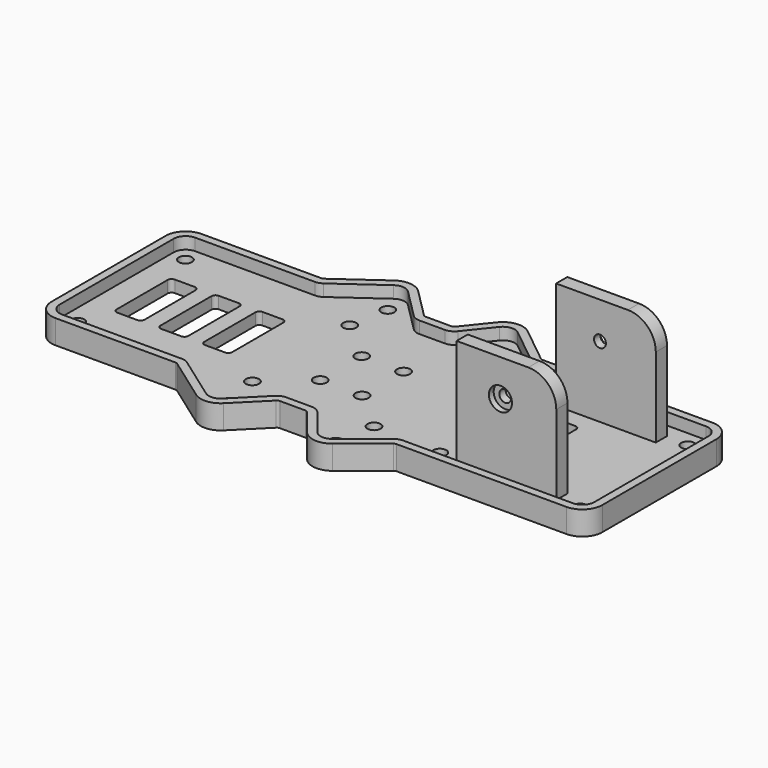
from build123d import *

# Parameters (mm, degrees)
F0_R      = 1.65
F1_DEPTH  = 3
F2_DEPTH  = 6
F3_W      = 25
F3_H      = 3.5
F4_DEPTH  = 27
F5_R      = 7
F7_D      = 3
F6_R      = 2.9000006616
F6_R_2    = 1.5
F8_DEPTH  = 1.5
F9_R      = 2.9
F9_R_2    = 1.5
F10_DEPTH = 1.5


with BuildPart() as f1:
    # F0 (on Top) → F1 (new body)
    with BuildSketch(Plane.XY):
        with BuildLine():
            Line((-28.4613951602, 20.875), (-58.5, 20.875))
            ThreePointArc((-58.5, 20.875), (-60.6213203436, 19.9963203436), (-61.5, 17.875))
            Line((-61.5, 17.875), (-61.5, -17.875))
            ThreePointArc((-61.5, -17.875), (-60.6213203436, -19.9963203436), (-58.5, -20.875))
            Line((-58.5, -20.875), (-28.4613951602, -20.875))
            ThreePointArc((-28.4613951602, -20.875), (-27.5458628672, -21.0181134744), (-26.7176805791, -21.4337995864))
            Line((-26.7176805791, -21.4337995864), (-15.5680069985, -29.3978521439))
            ThreePointArc((-15.5680069985, -29.3978521439), (-13.5768508228, -29.9464297584), (-11.7029720738, -29.0779720738))
            Line((-11.7029720738, -29.0779720738), (-4.3786796564, -21.7536796564))
            ThreePointArc((-4.3786796564, -21.7536796564), (-3.40540961, -21.1033614025), (-2.2573593129, -20.875))
            Line((-2.2573593129, -20.875), (4.1024778166, -20.875))
            ThreePointArc((4.1024778166, -20.875), (5.406174352, -21.1730793232), (6.4508009001, -22.0080831042))
            Line((6.4508009001, -22.0080831042), (11.6264022726, -28.5182733549))
            ThreePointArc((11.6264022726, -28.5182733549), (13.6396439237, -29.6325844668), (15.8500188662, -28.9929956822))
            Line((15.8500188662, -28.9929956822), (25.1647067211, -21.533360777))
            ThreePointArc((25.1647067211, -21.533360777), (26.0462491732, -21.0443713005), (27.0400002313, -20.875))
            Line((27.0400002313, -20.875), (69.5999996215, -20.875))
            ThreePointArc((69.5999996215, -20.875), (71.7213199651, -19.9963203436), (72.5999996215, -17.875))
            Line((72.5999996215, -17.875), (72.5999996215, 17.875))
            ThreePointArc((72.5999996215, 17.875), (71.7213199651, 19.9963203436), (69.5999996215, 20.875))
            Line((69.5999996215, 20.875), (27.0433012046, 20.875))
            ThreePointArc((27.0433012046, 20.875), (26.0467787238, 21.0453457905), (25.1634251828, 21.5370380365))
            Line((25.1634251828, 21.5370380365), (15.8937540735, 28.9904665866))
            ThreePointArc((15.8937540735, 28.9904665866), (13.686272674, 29.6345634281), (11.6712716234, 28.5265897658))
            Line((11.6712716234, 28.5265897658), (6.4507316966, 22.0009148573))
            ThreePointArc((6.4507316966, 22.0009148573), (5.4076914598, 21.1710902911), (4.1081252683, 20.875))
            Line((4.1081252683, 20.875), (-2.2573593129, 20.875))
            ThreePointArc((-2.2573593129, 20.875), (-3.40540961, 21.1033614025), (-4.3786796564, 21.7536796564))
            Line((-4.3786796564, 21.7536796564), (-11.7029720738, 29.0779720738))
            ThreePointArc((-11.7029720738, 29.0779720738), (-13.5768508228, 29.9464297584), (-15.5680069985, 29.3978521439))
            Line((-15.5680069985, 29.3978521439), (-26.7176805791, 21.4337995864))
            ThreePointArc((-26.7176805791, 21.4337995864), (-27.5458628672, 21.0181134744), (-28.4613951602, 20.875))
        make_face()
        with Locations((-57.75, -16.875)):
            Circle(F0_R, mode=Mode.SUBTRACT)
        with Locations((-13.5, -25)):
            Circle(F0_R, mode=Mode.SUBTRACT)
        with Locations((-15.25, -15.25)):
            Circle(F0_R, mode=Mode.SUBTRACT)
        with Locations((-5.25, -6.5)):
            Circle(F0_R, mode=Mode.SUBTRACT)
        with Locations((5.25, -6.5)):
            Circle(F0_R, mode=Mode.SUBTRACT)
        with Locations((13.5, -25)):
            Circle(F0_R, mode=Mode.SUBTRACT)
        with Locations((68.25, -16.875)):
            Circle(F0_R, mode=Mode.SUBTRACT)
        with Locations((15.25, -15.25)):
            Circle(F0_R, mode=Mode.SUBTRACT)
        with Locations((32.25, -15.875)):
            Circle(F0_R, mode=Mode.SUBTRACT)
        with BuildLine():
            ThreePointArc((37.9488505423, 8.5), (38.2417437611, 9.2071067812), (38.9488505423, 9.5))
            Line((38.9488505423, 9.5), (45.9488505423, 9.5))
            ThreePointArc((45.9488505423, 9.5), (46.6559573235, 9.2071067812), (46.9488505423, 8.5))
            Line((46.9488505423, 8.5), (46.9488505423, -8.5))
            ThreePointArc((46.9488505423, -8.5), (46.6559573235, -9.2071067812), (45.9488505423, -9.5))
            Line((45.9488505423, -9.5), (38.9488505423, -9.5))
            ThreePointArc((38.9488505423, -9.5), (38.2417437611, -9.2071067812), (37.9488505423, -8.5))
            Line((37.9488505423, -8.5), (37.9488505423, 8.5))
        make_face(mode=Mode.SUBTRACT)
        with BuildLine():
            ThreePointArc((-55.1053546369, 8.0000003874), (-54.8124614181, 8.7071071686), (-54.1053546369, 9.0000003874))
            Line((-54.1053546369, 9.0000003874), (-49.1053546369, 9.0000003874))
            ThreePointArc((-49.1053546369, 9.0000003874), (-48.3982478557, 8.7071071686), (-48.1053546369, 8.0000003874))
            Line((-48.1053546369, 8.0000003874), (-48.1053546369, -7.9999996126))
            ThreePointArc((-48.1053546369, -7.9999996126), (-48.3982478557, -8.7071063938), (-49.1053546369, -8.9999996126))
            Line((-49.1053546369, -8.9999996126), (-54.1053546369, -8.9999996126))
            ThreePointArc((-54.1053546369, -8.9999996126), (-54.8124614181, -8.7071063938), (-55.1053546369, -7.9999996126))
            Line((-55.1053546369, -7.9999996126), (-55.1053546369, 8.0000003874))
        make_face(mode=Mode.SUBTRACT)
        with BuildLine():
            Line((-44.1053546369, -7.9999996126), (-44.1053546369, 8.0000003874))
            ThreePointArc((-44.1053546369, 8.0000003874), (-43.8124614181, 8.7071071686), (-43.1053546369, 9.0000003874))
            Line((-43.1053546369, 9.0000003874), (-38.1053546369, 9.0000003874))
            ThreePointArc((-38.1053546369, 9.0000003874), (-37.3982478557, 8.7071071686), (-37.1053546369, 8.0000003874))
            Line((-37.1053546369, 8.0000003874), (-37.1053546369, -7.9999996126))
            ThreePointArc((-37.1053546369, -7.9999996126), (-37.3982478557, -8.7071063938), (-38.1053546369, -8.9999996126))
            Line((-38.1053546369, -8.9999996126), (-43.1053546369, -8.9999996126))
            ThreePointArc((-43.1053546369, -8.9999996126), (-43.8124614181, -8.7071063938), (-44.1053546369, -7.9999996126))
        make_face(mode=Mode.SUBTRACT)
        with BuildLine():
            Line((-33.1053546369, -7.9999996126), (-33.1053546369, 8.0000003874))
            ThreePointArc((-33.1053546369, 8.0000003874), (-32.8124614181, 8.7071071686), (-32.1053546369, 9.0000003874))
            Line((-32.1053546369, 9.0000003874), (-27.1053546369, 9.0000003874))
            ThreePointArc((-27.1053546369, 9.0000003874), (-26.3982478557, 8.7071071686), (-26.1053546369, 8.0000003874))
            Line((-26.1053546369, 8.0000003874), (-26.1053546369, -7.9999996126))
            ThreePointArc((-26.1053546369, -7.9999996126), (-26.3982478557, -8.7071063938), (-27.1053546369, -8.9999996126))
            Line((-27.1053546369, -8.9999996126), (-32.1053546369, -8.9999996126))
            ThreePointArc((-32.1053546369, -8.9999996126), (-32.8124614181, -8.7071063938), (-33.1053546369, -7.9999996126))
        make_face(mode=Mode.SUBTRACT)
        with Locations((-5.25, 6.5)):
            Circle(F0_R, mode=Mode.SUBTRACT)
        with Locations((5.25, 6.5)):
            Circle(F0_R, mode=Mode.SUBTRACT)
        with Locations((-15.25, 15.25)):
            Circle(F0_R, mode=Mode.SUBTRACT)
        with Locations((-57.75, 16.875)):
            Circle(F0_R, mode=Mode.SUBTRACT)
        with Locations((-13.5, 25)):
            Circle(F0_R, mode=Mode.SUBTRACT)
        with Locations((15.25, 15.25)):
            Circle(F0_R, mode=Mode.SUBTRACT)
        with Locations((32.25, 15.875)):
            Circle(F0_R, mode=Mode.SUBTRACT)
        with Locations((13.5, 25)):
            Circle(F0_R, mode=Mode.SUBTRACT)
        with Locations((68.25, 16.875)):
            Circle(F0_R, mode=Mode.SUBTRACT)
    extrude(amount=F1_DEPTH)

    # F0 (on Top) → F2 (join)
    with BuildSketch(Plane.XY):
        with BuildLine():
            Line((-28.4613951602, 22.875), (-58.5, 22.875))
            ThreePointArc((-58.5, 22.875), (-62.0355339059, 21.4105339059), (-63.5, 17.875))
            Line((-63.5, 17.875), (-63.5, -17.875))
            ThreePointArc((-63.5, -17.875), (-62.0355339059, -21.4105339059), (-58.5, -22.875))
            Line((-58.5, -22.875), (-28.4613951602, -22.875))
            ThreePointArc((-28.4613951602, -22.875), (-28.1562177292, -22.9227044915), (-27.8801569665, -23.0612665288))
            Line((-27.8801569665, -23.0612665288), (-16.730483386, -31.0253190863))
            ThreePointArc((-16.730483386, -31.0253190863), (-13.4118897597, -31.9396151104), (-10.2887585115, -30.4921856362))
            Line((-10.2887585115, -30.4921856362), (-2.9644660941, -23.1678932188))
            ThreePointArc((-2.9644660941, -23.1678932188), (-2.6400427452, -22.9511204675), (-2.2573593129, -22.875))
            Line((-2.2573593129, -22.875), (4.1024778166, -22.875))
            ThreePointArc((4.1024778166, -22.875), (4.5370433284, -22.9743597744), (4.8852521778, -23.2526943681))
            Line((4.8852521778, -23.2526943681), (10.0608535503, -29.7628846188))
            ThreePointArc((10.0608535503, -29.7628846188), (13.4162563021, -31.6200698053), (17.1002145396, -30.5540884975))
            Line((17.1002145396, -30.5540884975), (26.4149023945, -23.0944535923))
            ThreePointArc((26.4149023945, -23.0944535923), (26.7087498786, -22.9314571002), (27.0400002313, -22.875))
            Line((27.0400002313, -22.875), (69.5999996215, -22.875))
            ThreePointArc((69.5999996215, -22.875), (73.1355335274, -21.4105339059), (74.5999996215, -17.875))
            Line((74.5999996215, -17.875), (74.5999996215, 17.875))
            ThreePointArc((74.5999996215, 17.875), (73.1355335274, 21.4105339059), (69.5999996215, 22.875))
            Line((69.5999996215, 22.875), (27.0433012046, 22.875))
            ThreePointArc((27.0433012046, 22.875), (26.7111270443, 22.9317819302), (26.416675864, 23.0956793455))
            Line((26.416675864, 23.0956793455), (17.1470047547, 30.5491078957))
            ThreePointArc((17.1470047547, 30.5491078957), (13.4678690888, 31.6226026315), (10.1095340045, 29.7759798609))
            Line((10.1095340045, 29.7759798609), (4.8889940777, 23.2503049524))
            ThreePointArc((4.8889940777, 23.2503049524), (4.5413139988, 22.9736967637), (4.1081252683, 22.875))
            Line((4.1081252683, 22.875), (-2.2573593129, 22.875))
            ThreePointArc((-2.2573593129, 22.875), (-2.6400427452, 22.9511204675), (-2.9644660941, 23.1678932188))
            Line((-2.9644660941, 23.1678932188), (-10.2887585115, 30.4921856362))
            ThreePointArc((-10.2887585115, 30.4921856362), (-13.4118897597, 31.9396151104), (-16.730483386, 31.0253190863))
            Line((-16.730483386, 31.0253190863), (-27.8801569665, 23.0612665288))
            ThreePointArc((-27.8801569665, 23.0612665288), (-28.1562177292, 22.9227044915), (-28.4613951602, 22.875))
        make_face()
        with BuildLine():
            ThreePointArc((-61.5, 17.875), (-60.6213203436, 19.9963203436), (-58.5, 20.875))
            Line((-58.5, 20.875), (-28.4613951602, 20.875))
            ThreePointArc((-28.4613951602, 20.875), (-27.5458628672, 21.0181134744), (-26.7176805791, 21.4337995864))
            Line((-26.7176805791, 21.4337995864), (-15.5680069985, 29.3978521439))
            ThreePointArc((-15.5680069985, 29.3978521439), (-13.5768508228, 29.9464297584), (-11.7029720738, 29.0779720738))
            Line((-11.7029720738, 29.0779720738), (-4.3786796564, 21.7536796564))
            ThreePointArc((-4.3786796564, 21.7536796564), (-3.40540961, 21.1033614025), (-2.2573593129, 20.875))
            Line((-2.2573593129, 20.875), (4.1081252683, 20.875))
            ThreePointArc((4.1081252683, 20.875), (5.4076914598, 21.1710902911), (6.4507316966, 22.0009148573))
            Line((6.4507316966, 22.0009148573), (11.6712716234, 28.5265897658))
            ThreePointArc((11.6712716234, 28.5265897658), (13.686272674, 29.6345634281), (15.8937540735, 28.9904665866))
            Line((15.8937540735, 28.9904665866), (25.1634251828, 21.5370380365))
            ThreePointArc((25.1634251828, 21.5370380365), (26.0467787238, 21.0453457905), (27.0433012046, 20.875))
            Line((27.0433012046, 20.875), (69.5999996215, 20.875))
            ThreePointArc((69.5999996215, 20.875), (71.7213199651, 19.9963203436), (72.5999996215, 17.875))
            Line((72.5999996215, 17.875), (72.5999996215, -17.875))
            ThreePointArc((72.5999996215, -17.875), (71.7213199651, -19.9963203436), (69.5999996215, -20.875))
            Line((69.5999996215, -20.875), (27.0400002313, -20.875))
            ThreePointArc((27.0400002313, -20.875), (26.0462491732, -21.0443713005), (25.1647067211, -21.533360777))
            Line((25.1647067211, -21.533360777), (15.8500188662, -28.9929956822))
            ThreePointArc((15.8500188662, -28.9929956822), (13.6396439237, -29.6325844668), (11.6264022726, -28.5182733549))
            Line((11.6264022726, -28.5182733549), (6.4508009001, -22.0080831042))
            ThreePointArc((6.4508009001, -22.0080831042), (5.406174352, -21.1730793232), (4.1024778166, -20.875))
            Line((4.1024778166, -20.875), (-2.2573593129, -20.875))
            ThreePointArc((-2.2573593129, -20.875), (-3.40540961, -21.1033614025), (-4.3786796564, -21.7536796564))
            Line((-4.3786796564, -21.7536796564), (-11.7029720738, -29.0779720738))
            ThreePointArc((-11.7029720738, -29.0779720738), (-13.5768508228, -29.9464297584), (-15.5680069985, -29.3978521439))
            Line((-15.5680069985, -29.3978521439), (-26.7176805791, -21.4337995864))
            ThreePointArc((-26.7176805791, -21.4337995864), (-27.5458628672, -21.0181134744), (-28.4613951602, -20.875))
            Line((-28.4613951602, -20.875), (-58.5, -20.875))
            ThreePointArc((-58.5, -20.875), (-60.6213203436, -19.9963203436), (-61.5, -17.875))
            Line((-61.5, -17.875), (-61.5, 17.875))
        make_face(mode=Mode.SUBTRACT)
    extrude(amount=F2_DEPTH)

    # F3 (on face) → F4 (join)
    with BuildSketch(Plane.XY.offset(3)):
        with Locations((50.1329670805, 15.6)):
            Rectangle(F3_W, F3_H)
        with Locations((50.1329670805, -15.6)):
            Rectangle(F3_W, F3_H)
    extrude(amount=F4_DEPTH)

    # F5
    f5_edges = [f1.edges().sort_by_distance(p)[0] for p in [
        (62.632967, 15.6, 30),
        (62.632967, -15.6, 30),
    ]]
    fillet(f5_edges, radius=F5_R)

    # F7 (through all)
    with Locations(Plane.XZ.offset(17.35)):
        with Locations((48.6329670805, 20.8)):
            Hole(F7_D / 2)

    # F6 (on face) → F8 (cut)
    with BuildSketch(Plane.XZ.offset(17.35)):
        with Locations((48.6329670805, 20.8)):
            Circle(F6_R)
        with Locations((48.6329670805, 20.8)):
            Circle(F6_R_2, mode=Mode.SUBTRACT)
    extrude(amount=-F8_DEPTH, mode=Mode.SUBTRACT)

    # F9 (on face) → F10 (cut)
    with BuildSketch(Plane(origin=(0, 17.35, 0), x_dir=(-1, 0, 0), z_dir=(0, 1, 0))):
        with Locations((-48.6329670805, 20.8)):
            Circle(F9_R)
        with Locations((-48.6329670805, 20.8)):
            Circle(F9_R_2, mode=Mode.SUBTRACT)
    extrude(amount=-F10_DEPTH, mode=Mode.SUBTRACT)


solid = f1.part
